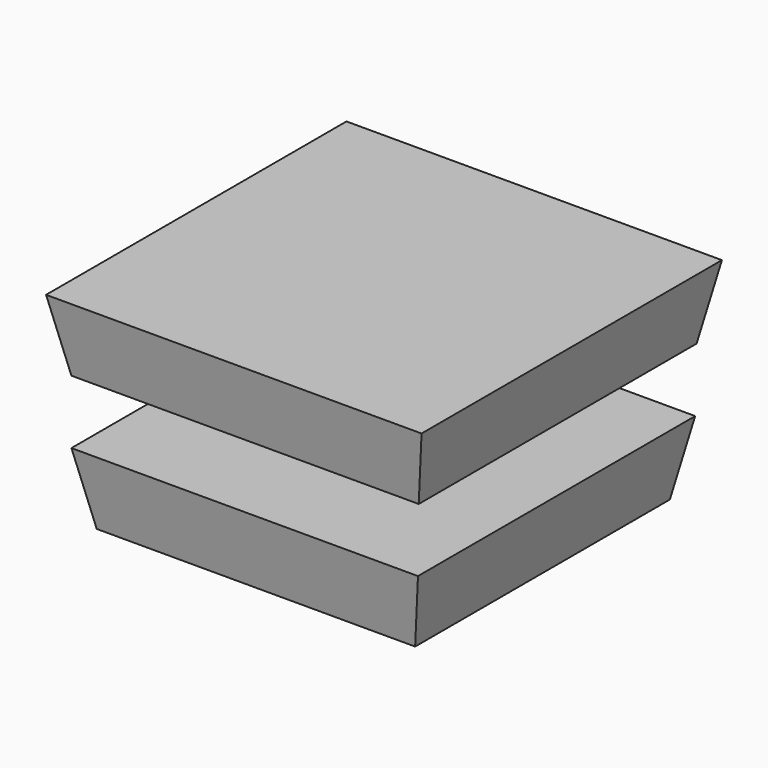
from build123d import *

# Parameters (mm, degrees)
F0_W     = 110
F0_H     = 110
F1_DEPTH = 25
F1_TAPER = -11
F2_R     = 25
F3_DEPTH = 22
F4_W     = 120
F4_H     = 120
F4_R     = 25
F5_DEPTH = 25
F5_TAPER = -11


with BuildPart() as f1:
    # F0 (on Top) → F1 (new body)
    with BuildSketch(Plane.XY):
        with Locations((55, 55)):
            Rectangle(F0_W, F0_H)
    extrude(amount=F1_DEPTH, taper=F1_TAPER)

    # F2 (on face) → F3 (join)
    with BuildSketch(Plane.XY.offset(25)):
        with Locations((55, 55)):
            Circle(F2_R)
        with Locations((55, 55)):
            Circle(F2_R)
    extrude(amount=F3_DEPTH)

    # F4 (on face) → F5 (join)
    with BuildSketch(Plane.XY.offset(47)):
        with Locations((55.1147708297, 55.155566372)):
            Rectangle(F4_W, F4_H)
        with Locations((55, 55)):
            Circle(F4_R, mode=Mode.SUBTRACT)
        with Locations((55, 55)):
            Circle(F4_R)
    extrude(amount=F5_DEPTH, taper=F5_TAPER)


solid = f1.part
